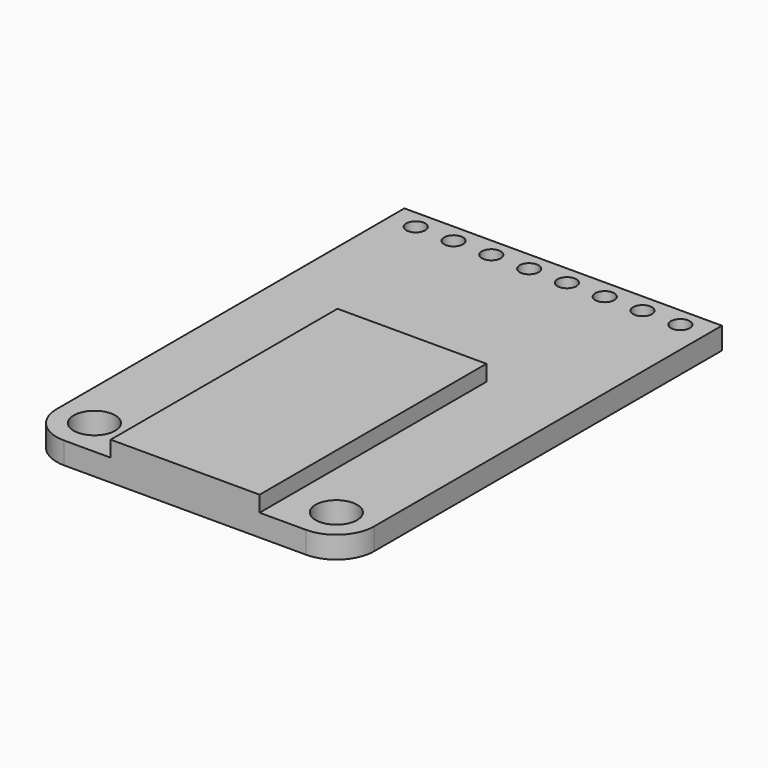
from build123d import *

# Parameters (mm, degrees)
F0_W     = 21.336
F0_H     = 31.75
F1_DEPTH = 1.4732
F2_R     = 2.54
F3_R     = 1.397
F4_DEPTH = 1.4732
F5_R     = 0.635
F6_DEPTH = 1.4732
F7_W     = 10.0076
F7_H     = 19.05
F8_DEPTH = 2.54


with BuildPart() as f1:
    # F0 (on Top) → F1 (new body)
    with BuildSketch(Plane.XY):
        Rectangle(F0_W, F0_H)
        Rectangle(F0_W, F0_H)
    extrude(amount=F1_DEPTH)

    # F2
    f2_edges = [f1.edges().sort_by_distance(p)[0] for p in [
        (10.668, -15.875, 0.7366),
        (-10.668, -15.875, 0.7366),
    ]]
    fillet(f2_edges, radius=F2_R)

    # F3 (on face) → F4 (cut, through all)
    with BuildSketch(Plane.XY.offset(1.4732)):
        with Locations((8.128, -13.335)):
            Circle(F3_R)
        with Locations((-8.128, -13.335)):
            Circle(F3_R)
    extrude(amount=-F4_DEPTH, mode=Mode.SUBTRACT)

    # F5 (on face) → F6 (cut, through all)
    with BuildSketch(Plane.XY.offset(1.4732)):
        with Locations((-8.89, 14.605)):
            Circle(F5_R)
        with Locations((-6.35, 14.605)):
            Circle(F5_R)
        with Locations((-3.81, 14.605)):
            Circle(F5_R)
        with Locations((-1.27, 14.605)):
            Circle(F5_R)
        with Locations((1.27, 14.605)):
            Circle(F5_R)
        with Locations((3.81, 14.605)):
            Circle(F5_R)
        with Locations((6.35, 14.605)):
            Circle(F5_R)
        with Locations((8.89, 14.605)):
            Circle(F5_R)
    extrude(amount=-F6_DEPTH, mode=Mode.SUBTRACT)

    # F7 (on face) → F8 (join)
    with BuildSketch(Plane(origin=(0, 0, 0), x_dir=(1, 0, 0), z_dir=(0, 0, -1))):
        with Locations((0, 6.35)):
            Rectangle(F7_W, F7_H)
    extrude(amount=-F8_DEPTH)


solid = f1.part
